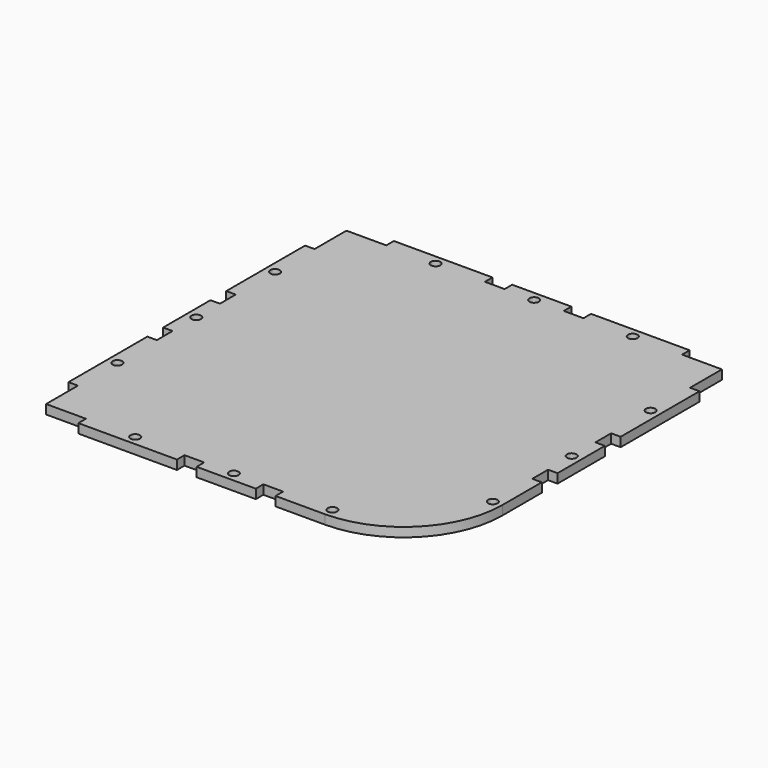
from build123d import *

# Parameters (mm, degrees)
F0_R     = 1.524
F1_DEPTH = 2.9718


with BuildPart() as f1:
    # F0 (on Top) → F1 (new body)
    with BuildSketch(Plane.XY):
        with BuildLine():
            Line((63.5, 15.875), (63.5, 47.625))
            Line((63.5, 47.625), (60.452, 47.625))
            Line((60.452, 47.625), (60.452, 60.452))
            Line((60.452, 60.452), (47.625, 60.452))
            Line((47.625, 60.452), (47.625, 63.5))
            Line((47.625, 63.5), (15.875, 63.5))
            Line((15.875, 63.5), (15.875, 60.452))
            Line((15.875, 60.452), (9.525, 60.452))
            Line((9.525, 60.452), (9.525, 63.5))
            Line((9.525, 63.5), (-9.525, 63.5))
            Line((-9.525, 63.5), (-9.525, 60.452))
            Line((-9.525, 60.452), (-15.875, 60.452))
            Line((-15.875, 60.452), (-15.875, 63.5))
            Line((-15.875, 63.5), (-47.625, 63.5))
            Line((-47.625, 63.5), (-47.625, 60.452))
            Line((-47.625, 60.452), (-60.452, 60.452))
            Line((-60.452, 60.452), (-60.452, 47.625))
            Line((-60.452, 47.625), (-63.5, 47.625))
            Line((-63.5, 47.625), (-63.5, 15.875))
            Line((-63.5, 15.875), (-60.452, 15.875))
            Line((-60.452, 15.875), (-60.452, 9.525))
            Line((-60.452, 9.525), (-63.5, 9.525))
            Line((-63.5, 9.525), (-63.5, -9.525))
            Line((-63.5, -9.525), (-60.452, -9.525))
            Line((-60.452, -9.525), (-60.452, -15.875))
            Line((-60.452, -15.875), (-63.5, -15.875))
            Line((-63.5, -15.875), (-63.5, -47.625))
            Line((-63.5, -47.625), (-60.452, -47.625))
            Line((-60.452, -47.625), (-60.452, -60.452))
            Line((-60.452, -60.452), (-47.625, -60.452))
            Line((-47.625, -60.452), (-47.625, -63.5))
            Line((-47.625, -63.5), (-15.875, -63.5))
            Line((-15.875, -63.5), (-15.875, -60.452))
            Line((-15.875, -60.452), (-9.525, -60.452))
            Line((-9.525, -60.452), (-9.525, -63.5))
            Line((-9.525, -63.5), (9.525, -63.5))
            Line((9.525, -63.5), (9.525, -60.452))
            Line((9.525, -60.452), (15.875, -60.452))
            Line((15.875, -60.452), (15.875, -63.5))
            Line((15.875, -63.5), (31.75, -63.5))
            ThreePointArc((31.75, -63.5), (54.20064, -54.20064), (63.5, -31.75))
            Line((63.5, -31.75), (63.5, -15.875))
            Line((63.5, -15.875), (60.452, -15.875))
            Line((60.452, -15.875), (60.452, -9.525))
            Line((60.452, -9.525), (63.5, -9.525))
            Line((63.5, -9.525), (63.5, 9.525))
            Line((63.5, 9.525), (60.452, 9.525))
            Line((60.452, 9.525), (60.452, 15.875))
            Line((60.452, 15.875), (63.5, 15.875))
        make_face()
        with Locations((-31.75, -60.452)):
            Circle(F0_R, mode=Mode.SUBTRACT)
        with Locations((-60.452, -31.75)):
            Circle(F0_R, mode=Mode.SUBTRACT)
        with Locations((0, -60.452)):
            Circle(F0_R, mode=Mode.SUBTRACT)
        with Locations((31.75, -60.452)):
            Circle(F0_R, mode=Mode.SUBTRACT)
        with Locations((60.452, -31.75)):
            Circle(F0_R, mode=Mode.SUBTRACT)
        with Locations((-60.452, 0)):
            Circle(F0_R, mode=Mode.SUBTRACT)
        with Locations((-60.452, 31.75)):
            Circle(F0_R, mode=Mode.SUBTRACT)
        with Locations((-31.75, 60.452)):
            Circle(F0_R, mode=Mode.SUBTRACT)
        with Locations((60.452, 0)):
            Circle(F0_R, mode=Mode.SUBTRACT)
        with Locations((0, 60.452)):
            Circle(F0_R, mode=Mode.SUBTRACT)
        with Locations((60.452, 31.75)):
            Circle(F0_R, mode=Mode.SUBTRACT)
        with Locations((31.75, 60.452)):
            Circle(F0_R, mode=Mode.SUBTRACT)
    extrude(amount=F1_DEPTH)


solid = f1.part
